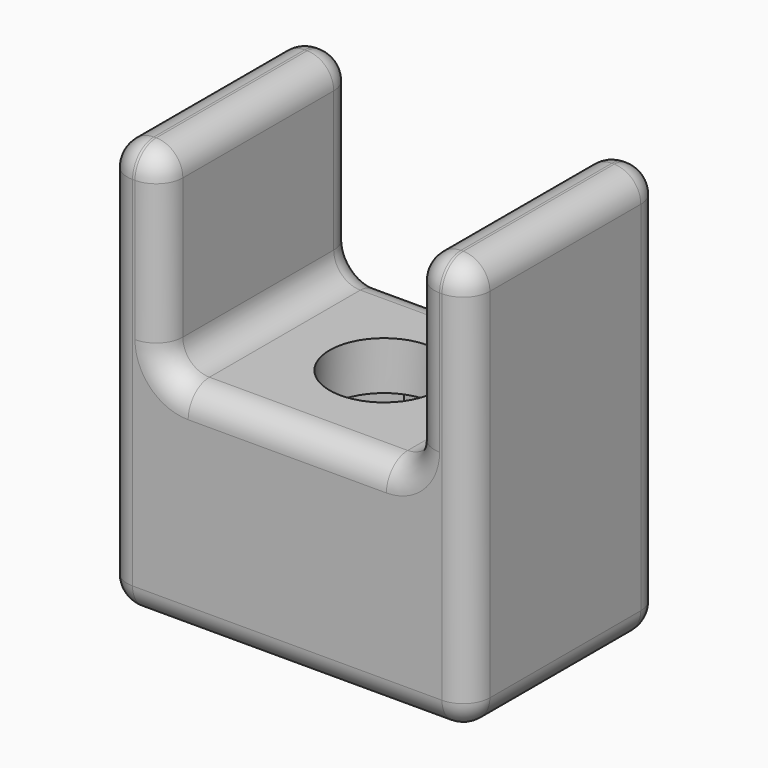
from build123d import *

# Parameters (mm, degrees)
F0_W     = 2.3
F0_H     = 8
F1_DEPTH = 10
F3_DEPTH = 17.001
F4_DEPTH = 7
F5_DEPTH = 1
F6_R     = 1.1


with BuildPart() as f1:
    # F0 (on Front) → F1 (new body)
    with BuildSketch(Plane.XZ):
        with Locations((1.15, 13)):
            Rectangle(F0_W, F0_H)
        Polygon((0, 9), (0, 0), (15, 0), (15, 9), (12.7, 9), (2.3, 9), align=None)
        with Locations((13.85, 13)):
            Rectangle(F0_W, F0_H)
    extrude(amount=F1_DEPTH)

    # F2 (on face) → F3 (cut, through all)
    with BuildSketch(Plane(origin=(0, 0, 0), x_dir=(1, 0, 0), z_dir=(0, 0, -1))):
        with BuildLine():
            Line((8.625, 3.0514428415), (6.375, 6.9485571585))
            ThreePointArc((6.375, 6.9485571585), (5.5514428415, 3.875), (8.625, 3.0514428415))
        make_face()
        with BuildLine():
            ThreePointArc((8.625, 3.0514428415), (9.4485571585, 3.875), (9.75, 5))
            ThreePointArc((9.75, 5), (8.625, 6.9485571585), (6.375, 6.9485571585))
            Line((6.375, 6.9485571585), (8.625, 3.0514428415))
        make_face()
    extrude(amount=-F3_DEPTH, mode=Mode.SUBTRACT)

    # F2 (on face) → F4 (cut)
    with BuildSketch(Plane(origin=(0, 0, 0), x_dir=(1, 0, 0), z_dir=(0, 0, -1))):
        with BuildLine():
            ThreePointArc((8.625, 3.0514428415), (5.5514428415, 3.875), (6.375, 6.9485571585))
            Line((6.375, 6.9485571585), (5.3349364905, 8.75))
            Line((5.3349364905, 8.75), (3.1698729811, 5))
            Line((3.1698729811, 5), (5.3349364905, 1.25))
            Line((5.3349364905, 1.25), (9.6650635095, 1.25))
            Line((9.6650635095, 1.25), (8.625, 3.0514428415))
        make_face()
        with BuildLine():
            ThreePointArc((6.375, 6.9485571585), (8.625, 6.9485571585), (9.75, 5))
            ThreePointArc((9.75, 5), (9.4485571585, 3.875), (8.625, 3.0514428415))
            Line((8.625, 3.0514428415), (9.6650635095, 1.25))
            Line((9.6650635095, 1.25), (11.8301270189, 5))
            Line((11.8301270189, 5), (9.6650635095, 8.75))
            Line((9.6650635095, 8.75), (5.3349364905, 8.75))
            Line((5.3349364905, 8.75), (6.375, 6.9485571585))
        make_face()
    extrude(amount=-F4_DEPTH, mode=Mode.SUBTRACT)

    # F2 (on face) → F5 (join)
    with BuildSketch(Plane(origin=(0, 0, 0), x_dir=(1, 0, 0), z_dir=(0, 0, -1))):
        with BuildLine():
            ThreePointArc((8.625, 3.0514428415), (5.5514428415, 3.875), (6.375, 6.9485571585))
            Line((6.375, 6.9485571585), (5.3349364905, 8.75))
            Line((5.3349364905, 8.75), (3.1698729811, 5))
            Line((3.1698729811, 5), (5.3349364905, 1.25))
            Line((5.3349364905, 1.25), (9.6650635095, 1.25))
            Line((9.6650635095, 1.25), (8.625, 3.0514428415))
        make_face()
        with BuildLine():
            ThreePointArc((6.375, 6.9485571585), (8.625, 6.9485571585), (9.75, 5))
            ThreePointArc((9.75, 5), (9.4485571585, 3.875), (8.625, 3.0514428415))
            Line((8.625, 3.0514428415), (9.6650635095, 1.25))
            Line((9.6650635095, 1.25), (11.8301270189, 5))
            Line((11.8301270189, 5), (9.6650635095, 8.75))
            Line((9.6650635095, 8.75), (5.3349364905, 8.75))
            Line((5.3349364905, 8.75), (6.375, 6.9485571585))
        make_face()
    extrude(amount=-F5_DEPTH)

    # F6
    f6_edges = [f1.edges().sort_by_distance(p)[0] for p in [
        (0, 0, 8.5),
        (7.5, 0, 0),
        (15, 0, 8.5),
        (13.85, 0, 17),
        (12.7, 0, 13),
        (7.5, 0, 9),
        (2.3, 0, 13),
        (1.15, 0, 17),
        (0, -10, 8.5),
        (7.5, -10, 0),
        (15, -10, 8.5),
        (13.85, -10, 17),
        (12.7, -10, 13),
        (7.5, -10, 9),
        (2.3, -10, 13),
        (1.15, -10, 17),
        (15, -5, 0),
        (15, -5, 17),
        (0, -5, 17),
        (0, -5, 0),
        (12.7, -5, 17),
        (12.7, -5, 9),
        (2.3, -5, 9),
        (2.3, -5, 17),
    ]]
    fillet(f6_edges, radius=F6_R)


solid = f1.part
